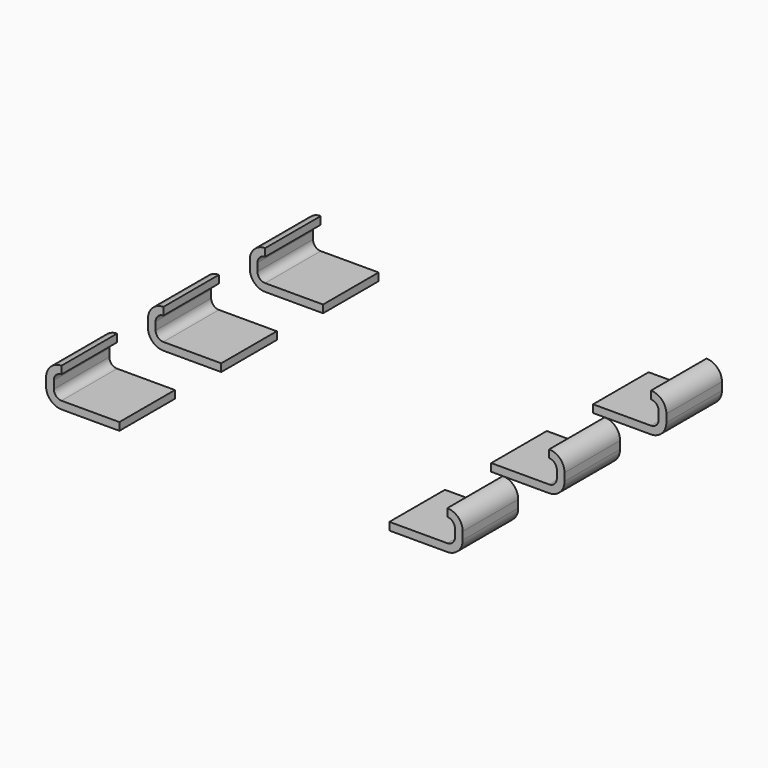
from build123d import *

# Parameters (mm, degrees)
EXTRUDE003_DEPTH         = 0.45
ARRAY_Y_COUNT            = 3
ARRAY_Y_PITCH            = 1.65
CLONE001_PLACEMENT_ANGLE = 180


with BuildPart() as metaltabsleft:
    # Sketch004 → Extrude003 (new body, symmetric)
    with BuildSketch(Plane.XZ):
        with BuildLine():
            ThreePointArc((-2.5, 0.5), (-2.641421, 0.441421), (-2.7, 0.3))
            Line((-2.7, 0.3), (-2.7, 0.2))
            ThreePointArc((-2.7, 0.2), (-2.641421, 0.058579), (-2.5, 0))
            Line((-2.5, 0), (-1.75, 0))
            Line((-1.75, 0.1), (-1.75, 0))
            Line((-2.5, 0.1), (-1.75, 0.1))
            ThreePointArc((-2.6, 0.2), (-2.570711, 0.129289), (-2.5, 0.1))
            Line((-2.6, 0.2), (-2.6, 0.3))
            ThreePointArc((-2.5, 0.4), (-2.570711, 0.370711), (-2.6, 0.3))
            Line((-2.5, 0.4), (-2.5, 0.5))
        make_face()
    extrude(amount=EXTRUDE003_DEPTH, both=True)

    # Array Y: MetalTabsLeft ×3


with BuildPart() as metaltabsleft_1:
    add(metaltabsleft.part)
    with Locations(*[(0, i * ARRAY_Y_PITCH, 0) for i in range(1, ARRAY_Y_COUNT)]):
        add(metaltabsleft.part)


with BuildPart() as metaltabsleft_2:
    # Array placement: moved
    add(metaltabsleft_1.part.moved(Location((0, -1.65, 0))))


with BuildPart() as metaltabs:
    # Clone001 base: copy of MetalTabsLeft
    add(metaltabsleft_2.part)


with BuildPart() as metaltabs_1:
    # Clone001 placement: moved
    add(metaltabs.part.moved(Location((0, 0, 0))).rotate(Axis((0, 0, 0), (0, 0, 1)), CLONE001_PLACEMENT_ANGLE))

    # Fusion: union MetalTabsLeft
    add(metaltabsleft_2.part)


solid = metaltabs_1.part
